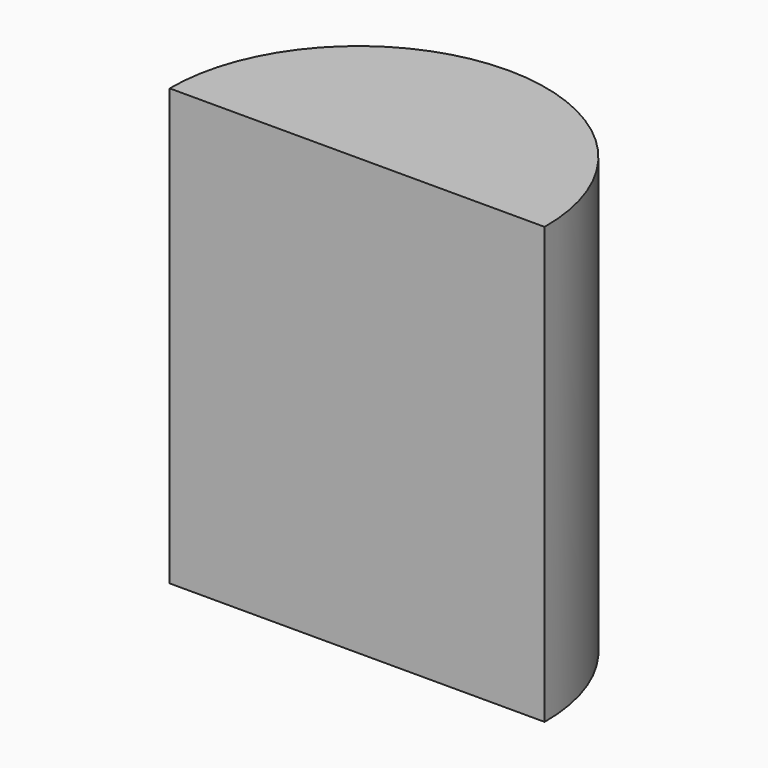
from build123d import *

# Parameters (mm, degrees)
F1_DEPTH = 38.1


with BuildPart() as f1:
    # F0 (on Top) → F1 (new body, symmetric)
    with BuildSketch(Plane.XY):
        with BuildLine():
            ThreePointArc((65.553166, 0), (32.776583, 33.049235), (0, 0))
            Line((0, 0), (65.553166, 0))
        make_face()
    extrude(amount=F1_DEPTH, both=True)


solid = f1.part
